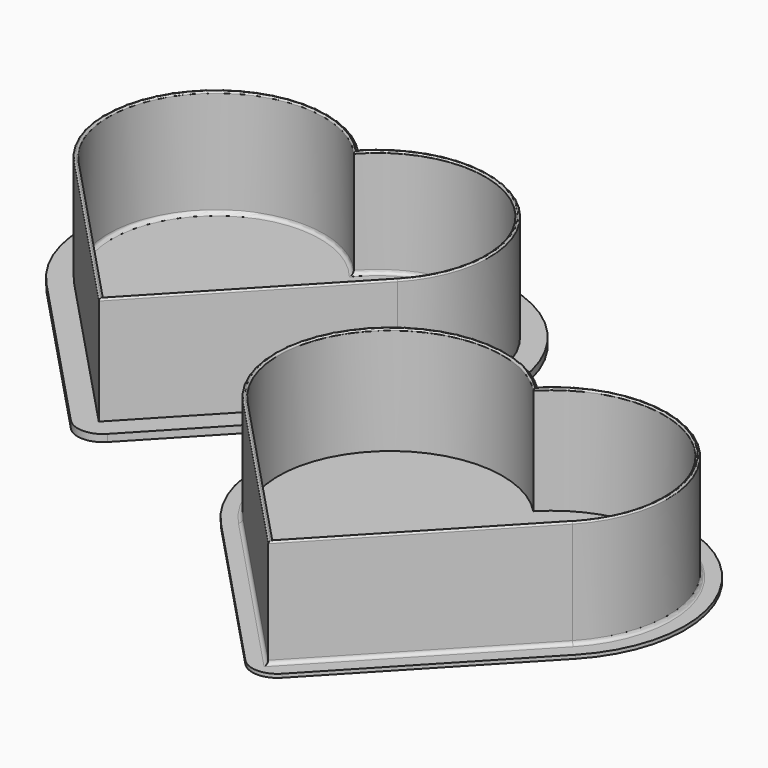
from build123d import *

# Parameters (mm, degrees)
EXTRUDE001_DEPTH = 2
EXTRUDE_DEPTH    = 32
FILLET_1_R       = 1
FILLET_2_R       = 0.45
EXTRUDE003_DEPTH = 1
EXTRUDE002_DEPTH = 31
FILLET001_1_R    = 1
FILLET001_2_R    = 0.45


with BuildPart() as extrude001:
    # Offset2D001 → Extrude001 (new body)
    with BuildSketch(Plane(origin=(0, -18.75, 0), x_dir=(0, 1, 0), z_dir=(0, 0, 1))):
        with BuildLine():
            ThreePointArc((-6.659534, -49.39527), (43.526999, -49.979089), (48.122606, 0))
            ThreePointArc((48.122606, 0), (43.526999, 49.979089), (-6.659534, 49.39527))
            Line((-6.659534, 49.39527), (-53.557209, 5.088294))
            ThreePointArc((-53.557209, 5.088294), (-55.75, 0), (-53.557209, -5.088294))
            Line((-53.557209, -5.088294), (-6.659534, -49.39527))
        make_face()
    extrude(amount=EXTRUDE001_DEPTH)


with BuildPart() as bottom_fillet:
    # Offset2D → Extrude (new body)
    with BuildSketch(Plane(origin=(0, -9.530863, 0), x_dir=(0, 1, 0), z_dir=(0, 0, 1))):
        with BuildLine():
            ThreePointArc((-11.758206, -45.033875), (32.047808, -43.806976), (30.855731, 0))
            ThreePointArc((30.855731, 0), (32.047808, 43.806976), (-11.758206, 45.033875))
            Line((-11.758206, 45.033875), (-59.425283, 0))
            Line((-59.425283, 0), (-11.758206, -45.033875))
        make_face()
        with BuildLine():
            ThreePointArc((29.373998, 0), (31.687603, -42.725699), (-11.071462, -44.306976))
            Line((-11.071462, -44.306976), (-57.969137, 0))
            Line((-57.969137, 0), (-11.071462, 44.306976))
            ThreePointArc((-11.071462, 44.306976), (31.687603, 42.725699), (29.373998, 0))
        make_face(mode=Mode.SUBTRACT)
    extrude(amount=EXTRUDE_DEPTH)

    # Fusion: union Extrude001
    add(extrude001.part)

    # Fillet 1
    fillet_1_edges = [bottom_fillet.edges().sort_by_distance(p)[0] for p in [
        (42.725699, 22.15674, 2),
        (-42.725699, 22.15674, 2),
        (-22.153488, -44.051163, 2),
        (22.153488, -44.051163, 2),
    ]]
    fillet(fillet_1_edges, radius=FILLET_1_R)

    # Fillet 2
    fillet_2_edges = [bottom_fillet.edges().sort_by_distance(p)[0] for p in [
        (-43.806976, 22.516945, 32),
        (-22.516937, -45.122608, 32),
        (22.516937, -45.122608, 32),
        (43.806976, 22.516945, 32),
        (42.725699, 22.15674, 32),
        (-42.725699, 22.15674, 32),
        (-22.153488, -44.051163, 32),
        (22.153488, -44.051163, 32),
    ]]
    fillet(fillet_2_edges, radius=FILLET_2_R)


with BuildPart() as extrude003:
    # Offset2D004 → Extrude003 (new body)
    with BuildSketch(Plane(origin=(0, -18.75, 0), x_dir=(0, 1, 0), z_dir=(0, 0, 1))):
        with BuildLine():
            ThreePointArc((-6.659534, -49.39527), (43.526999, -49.979089), (48.122606, 0))
            ThreePointArc((48.122606, 0), (43.526999, 49.979089), (-6.659534, 49.39527))
            Line((-6.659534, 49.39527), (-53.557209, 5.088294))
            ThreePointArc((-53.557209, 5.088294), (-55.75, 0), (-53.557209, -5.088294))
            Line((-53.557209, -5.088294), (-6.659534, -49.39527))
        make_face()
    extrude(amount=EXTRUDE003_DEPTH)


with BuildPart() as top_fillet:
    # Offset2D003 → Extrude002 (new body)
    with BuildSketch(Plane(origin=(0, -9.680199, 0), x_dir=(0, 1, 0), z_dir=(0, 0, 1))):
        with BuildLine():
            ThreePointArc((-12.432963, -45.906154), (32.637899, -45.078397), (32.714739, 0))
            ThreePointArc((32.714739, 0), (32.637899, 45.078397), (-12.432963, 45.906154))
            Line((-12.432963, 45.906154), (-61.023323, 0))
            Line((-61.023323, 0), (-12.432963, -45.906154))
        make_face()
        with BuildLine():
            ThreePointArc((31.294778, 0), (32.270023, -44.020685), (-11.746219, -45.179255))
            Line((-11.746219, -45.179255), (-59.567176, 0))
            Line((-59.567176, 0), (-11.746219, 45.179255))
            ThreePointArc((-11.746219, 45.179255), (32.270023, 44.020685), (31.294778, 0))
        make_face(mode=Mode.SUBTRACT)
    extrude(amount=EXTRUDE002_DEPTH)

    # Fusion001: union Extrude003
    add(extrude003.part)

    # Fillet001 1
    fillet001_1_edges = [top_fillet.edges().sort_by_distance(p)[0] for p in [
        (-45.078397, 22.9577, 1),
        (-22.953077, -46.408342, 1),
        (22.953077, -46.408342, 1),
        (45.078397, 22.9577, 1),
    ]]
    fillet(fillet001_1_edges, radius=FILLET001_1_R)

    # Fillet001 2
    fillet001_2_edges = [top_fillet.edges().sort_by_distance(p)[0] for p in [
        (-45.078397, 22.9577, 31),
        (-22.953077, -46.408342, 31),
        (22.953077, -46.408342, 31),
        (45.078397, 22.9577, 31),
        (44.020685, 22.589823, 31),
        (-44.020685, 22.589823, 31),
        (-22.589627, -45.336897, 31),
        (22.589627, -45.336897, 31),
    ]]
    fillet(fillet001_2_edges, radius=FILLET001_2_R)


with BuildPart() as top_fillet_1:
    # Fillet001 placement: moved
    add(top_fillet.part.moved(Location((99, -63, 0))))


solid = Compound([bottom_fillet.part, top_fillet_1.part])
